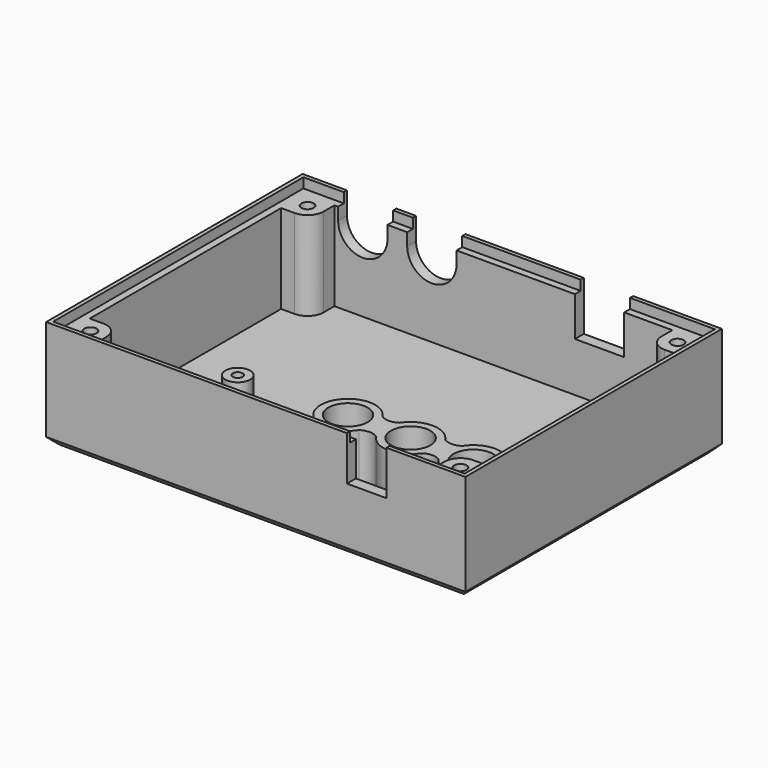
from build123d import *

# Parameters (mm, degrees)
SKETCH_W        = 85
SKETCH_H        = 65
PAD_DEPTH       = 22
SKETCH001_W     = 80.5
SKETCH001_H     = 60.5
POCKET_DEPTH    = 20
SKETCH002_W     = 83.4
SKETCH002_H     = 63.4
POCKET001_DEPTH = 2
SKETCH003_R     = 1.25
PAD001_DEPTH    = 18
SKETCH004_R     = 2.5
SKETCH004_W     = 25
SKETCH004_H     = 14
POCKET002_DEPTH = 5
SKETCH005_R     = 2.5
SKETCH005_R_2   = 1
PAD002_DEPTH    = 3.5
SKETCH006_W     = 27.4
SKETCH006_H     = 16.4
SKETCH006_W_2   = 25
SKETCH006_H_2   = 14
PAD003_DEPTH    = 1.5
CHAMFER_SIZE2   = 1.5
CHAMFER_SIZE    = 2
CHAMFER001_SIZE = 1.5
SKETCH007_R     = 4
PAD004_DEPTH    = 12
SKETCH008_W     = 10
SKETCH008_H     = 10
POCKET003_DEPTH = 5
POCKET004_DEPTH = 5
SKETCH010_W     = 8
SKETCH010_H     = 9
POCKET005_DEPTH = 5


with BuildPart() as part:
    # Sketch → Pad (new body)
    with BuildSketch(Plane.XY):
        with Locations((42.5, 32.5)):
            Rectangle(SKETCH_W, SKETCH_H)
    extrude(amount=PAD_DEPTH)

    # Sketch001 (on Face6 of Pad) → Pocket (cut)
    with BuildSketch(Plane.XY.offset(22)):
        with Locations((42.5, 32.5)):
            Rectangle(SKETCH001_W, SKETCH001_H)
    extrude(amount=-POCKET_DEPTH, mode=Mode.SUBTRACT)

    # Sketch002 (on Face5 of Pocket) → Pocket001 (cut)
    with BuildSketch(Plane.XY.offset(22)):
        with Locations((42.5, 32.5)):
            Rectangle(SKETCH002_W, SKETCH002_H)
    extrude(amount=-POCKET001_DEPTH, mode=Mode.SUBTRACT)

    # Sketch003 (on Face16 of Pocket001) → Pad001 (join)
    with BuildSketch(Plane.XY.offset(2)):
        with BuildLine():
            Line((2.25, 2.25), (8.25, 2.25))
            Line((8.25, 5), (8.25, 2.25))
            ThreePointArc((8.25, 5), (7.298097, 7.298097), (5, 8.25))
            Line((5, 8.25), (2.25, 8.25))
            Line((2.25, 8.25), (2.25, 2.25))
        make_face()
        with Locations((5, 5)):
            Circle(SKETCH003_R, mode=Mode.SUBTRACT)
        with BuildLine():
            Line((82.75, 2.25), (76.75, 2.25))
            Line((76.75, 5), (76.75, 2.25))
            ThreePointArc((80, 8.25), (77.701903, 7.298097), (76.75, 5))
            Line((80, 8.25), (82.75, 8.25))
            Line((82.75, 8.25), (82.75, 2.25))
        make_face()
        with Locations((80, 5)):
            Circle(SKETCH003_R, mode=Mode.SUBTRACT)
        with BuildLine():
            Line((2.25, 62.75), (8.25, 62.75))
            Line((8.25, 62.75), (8.25, 60))
            ThreePointArc((5, 56.75), (7.298097, 57.701903), (8.25, 60))
            Line((5, 56.75), (2.25, 56.75))
            Line((2.25, 56.75), (2.25, 62.75))
        make_face()
        with Locations((5, 60)):
            Circle(SKETCH003_R, mode=Mode.SUBTRACT)
        with BuildLine():
            Line((82.75, 62.75), (76.75, 62.75))
            Line((76.75, 62.75), (76.75, 60))
            ThreePointArc((76.75, 60), (77.701903, 57.701903), (80, 56.75))
            Line((80, 56.75), (82.75, 56.75))
            Line((82.75, 62.75), (82.75, 56.75))
        make_face()
        with Locations((80, 60)):
            Circle(SKETCH003_R, mode=Mode.SUBTRACT)
    extrude(amount=PAD001_DEPTH)

    # Sketch004 (on Face4 of Pad001) → Pocket002 (cut)
    with BuildSketch(Plane(origin=(0, 0, 0), x_dir=(1, 0, 0), z_dir=(0, 0, -1))):
        with Locations((73, -17)):
            Circle(SKETCH004_R)
        with Locations((60.3, -17)):
            Circle(SKETCH004_R)
        with Locations((47.6, -17)):
            Circle(SKETCH004_R)
        with Locations((25.5, -17)):
            Rectangle(SKETCH004_W, SKETCH004_H)
    extrude(amount=-POCKET002_DEPTH, mode=Mode.SUBTRACT)

    # Sketch005 (on Face18 of Pocket002) → Pad002 (join)
    with BuildSketch(Plane.XY.offset(2)):
        with Locations((15.25, 6.5)):
            Circle(SKETCH005_R)
        with Locations((15.25, 6.5)):
            Circle(SKETCH005_R_2, mode=Mode.SUBTRACT)
        with Locations((35.75, 6.5)):
            Circle(SKETCH005_R)
        with Locations((35.75, 6.5)):
            Circle(SKETCH005_R_2, mode=Mode.SUBTRACT)
        with Locations((35.75, 29.5)):
            Circle(SKETCH005_R)
        with Locations((35.75, 29.5)):
            Circle(SKETCH005_R_2, mode=Mode.SUBTRACT)
        with Locations((15.25, 29.5)):
            Circle(SKETCH005_R)
        with Locations((15.25, 29.5)):
            Circle(SKETCH005_R_2, mode=Mode.SUBTRACT)
    extrude(amount=PAD002_DEPTH)

    # Sketch006 (on Face18 of Pad002) → Pad003 (join)
    with BuildSketch(Plane.XY.offset(2)):
        with Locations((25.5, 17)):
            Rectangle(SKETCH006_W, SKETCH006_H)
        with Locations((25.5, 17)):
            Rectangle(SKETCH006_W_2, SKETCH006_H_2, mode=Mode.SUBTRACT)
    extrude(amount=PAD003_DEPTH)

    # Chamfer
    chamfer_edges = [part.edges().sort_by_distance(p)[0] for p in [
        (25.5, 10, 0),
        (13, 17, 0),
        (25.5, 24, 0),
        (38, 17, 0),
    ]]
    chamfer_side = part.faces().sort_by_distance((43.458054, 33.73884, 0))[0]
    chamfer(chamfer_edges, length=CHAMFER_SIZE, length2=CHAMFER_SIZE2, reference=chamfer_side)

    # Chamfer001
    chamfer001_edges = [part.edges().sort_by_distance(p)[0] for p in [
        (0, 32.5, 0),
        (42.5, 65, 0),
        (85, 32.5, 0),
        (42.5, 0, 0),
    ]]
    chamfer(chamfer001_edges, length=CHAMFER001_SIZE)

    # Sketch007 (on Face21 of Chamfer001) → Pad004 (join)
    with BuildSketch(Plane.XY.offset(2)):
        with BuildLine():
            ThreePointArc((68.390228, 14), (78.5, 17), (68.390228, 20))
            ThreePointArc((64.909772, 20), (66.65, 19.443687), (68.390228, 20))
            ThreePointArc((64.909772, 20), (60.3, 22.5), (55.690228, 20))
            ThreePointArc((52.209772, 20), (53.95, 19.443687), (55.690228, 20))
            ThreePointArc((52.209772, 20), (42.1, 17), (52.209772, 14))
            ThreePointArc((55.690228, 14), (53.95, 14.556313), (52.209772, 14))
            ThreePointArc((55.690228, 14), (60.3, 11.5), (64.909772, 14))
            ThreePointArc((68.390228, 14), (66.65, 14.556313), (64.909772, 14))
        make_face()
        with Locations((47.6, 17)):
            Circle(SKETCH007_R, mode=Mode.SUBTRACT)
        with Locations((60.3, 17)):
            Circle(SKETCH007_R, mode=Mode.SUBTRACT)
        with Locations((73, 17)):
            Circle(SKETCH007_R, mode=Mode.SUBTRACT)
    extrude(amount=PAD004_DEPTH)

    # Sketch008 (on Face14 of Pad004) → Pocket003 (cut)
    with BuildSketch(Plane(origin=(0, 65, 0), x_dir=(-1, 0, 0), z_dir=(0, 1, 0))):
        with Locations((-62, 17)):
            Rectangle(SKETCH008_W, SKETCH008_H)
    extrude(amount=-POCKET003_DEPTH, mode=Mode.SUBTRACT)

    # Sketch009 (on Face14 of Pocket003) → Pocket004 (cut)
    with BuildSketch(Plane(origin=(0, 65, 0), x_dir=(-1, 0, 0), z_dir=(0, 1, 0))):
        with BuildLine():
            ThreePointArc((-19, 17.5), (-14, 12.5), (-9, 17.5))
            Line((-9, 22), (-9, 17.5))
            Line((-19, 22), (-9, 22))
            Line((-19, 17.5), (-19, 22))
        make_face()
        with BuildLine():
            ThreePointArc((-33, 17.5), (-28, 12.5), (-23, 17.5))
            Line((-23, 22), (-23, 17.5))
            Line((-33, 22), (-23, 22))
            Line((-33, 17.5), (-33, 22))
        make_face()
    extrude(amount=-POCKET004_DEPTH, mode=Mode.SUBTRACT)

    # Sketch010 (on Face15 of Pocket004) → Pocket005 (cut)
    with BuildSketch(Plane.XZ):
        with Locations((65, 17.5)):
            Rectangle(SKETCH010_W, SKETCH010_H)
    extrude(amount=-POCKET005_DEPTH, mode=Mode.SUBTRACT)


solid = part.part
